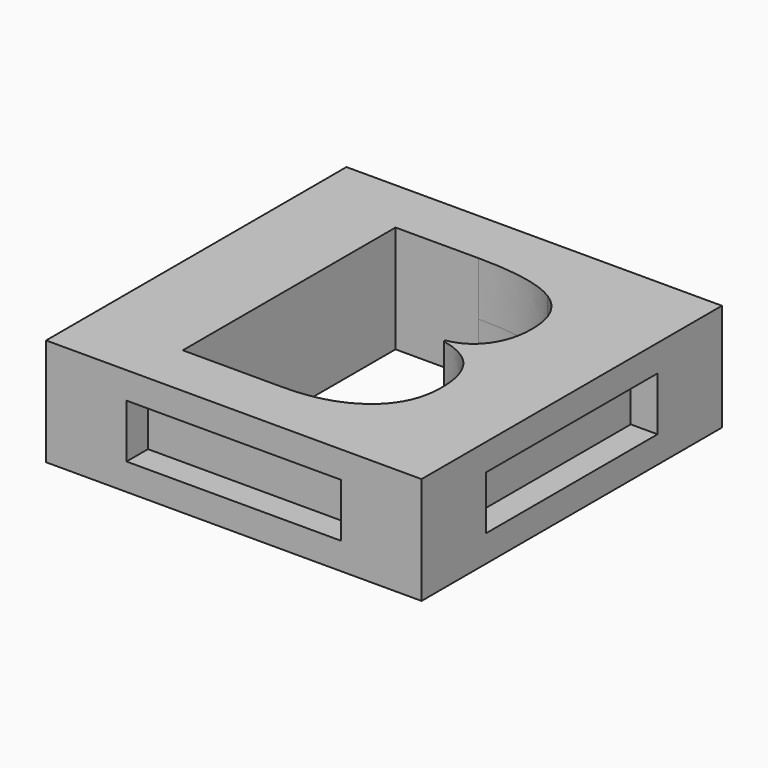
from build123d import *

# Parameters (mm, degrees)
F0_W     = 35.56
F0_H     = 35.56
F1_DEPTH = 5.08
F2_W     = 19.812
F2_H     = 4.572
F3_DEPTH = 2.54
F4_W     = 20.32
F4_H     = 5.08
F5_DEPTH = 2.54
F6_W     = 20.32
F6_H     = 5.08
F7_DEPTH = 2.54
F8_W     = 20.32
F8_H     = 5.08
F9_DEPTH = 2.54


with BuildPart() as f1:
    # F0 (on Top) → F1 (new body, symmetric)
    with BuildSketch(Plane.XY):
        Rectangle(F0_W, F0_H)
        with BuildLine():
            Line((-8.8966145833, -12.7), (-8.8966145833, 12.4850260417))
            Line((-8.8966145833, 12.4850260417), (-1.0583333333, 12.4850260417))
            add(Edge.make_bspline(
                [(-1.0583333333, 12.4850260417), (4.2994791667, 12.4850260417), (6.7193142361, 10.9609157986)],
                knots=[0, 0, 0, 1, 1, 1], degree=2))
            add(Edge.make_bspline(
                [(6.7193142361, 10.9609157986), (9.1391493056, 9.4368055556), (9.1391493056, 6.1129774306)],
                knots=[0, 0, 0, 1, 1, 1], degree=2))
            add(Edge.make_bspline(
                [(9.1391493056, 6.1129774306), (9.1391493056, 3.8529947917), (8.0808159722, 2.4060546875)],
                knots=[0, 0, 0, 1, 1, 1], degree=2))
            add(Edge.make_bspline(
                [(8.0808159722, 2.4060546875), (7.0224826389, 0.9591145833), (5.2641059028, 0.6669704861)],
                knots=[0, 0, 0, 1, 1, 1], degree=2))
            Line((5.2641059028, 0.6669704861), (5.2641059028, 0.49609375))
            add(Edge.make_bspline(
                [(5.2641059028, 0.49609375), (7.6563802083, -0.0385850694), (8.7174696181, -1.5020616319)],
                knots=[0, 0, 0, 1, 1, 1], degree=2))
            add(Edge.make_bspline(
                [(8.7174696181, -1.5020616319), (9.7785590278, -2.9655381944), (9.7785590278, -5.3963975694)],
                knots=[0, 0, 0, 1, 1, 1], degree=2))
            add(Edge.make_bspline(
                [(9.7785590278, -5.3963975694), (9.7785590278, -8.8414930556), (7.2870659722, -10.7707465278)],
                knots=[0, 0, 0, 1, 1, 1], degree=2))
            add(Edge.make_bspline(
                [(7.2870659722, -10.7707465278), (4.7955729167, -12.7), (0.5236545139, -12.7)],
                knots=[0, 0, 0, 1, 1, 1], degree=2))
            Line((0.5236545139, -12.7), (-8.8966145833, -12.7))
        make_face(mode=Mode.SUBTRACT)
    extrude(amount=F1_DEPTH, both=True)

    # F2 (on face) → F3 (join)
    with BuildSketch(Plane(origin=(0, 17.78, 0), x_dir=(-1, 0, 0), z_dir=(0, 1, 0))):
        Rectangle(F2_W, F2_H)
    extrude(amount=F3_DEPTH)

    # F4 (on face) → F5 (join)
    with BuildSketch(Plane(origin=(-17.78, 0, 0), x_dir=(0, -1, 0), z_dir=(-1, 0, 0))):
        Rectangle(F4_W, F4_H)
    extrude(amount=F5_DEPTH)

    # F6 (on face) → F7 (cut)
    with BuildSketch(Plane.XZ.offset(17.78)):
        Rectangle(F6_W, F6_H)
    extrude(amount=-F7_DEPTH, mode=Mode.SUBTRACT)

    # F8 (on face) → F9 (cut)
    with BuildSketch(Plane.YZ.offset(17.78)):
        Rectangle(F8_W, F8_H)
    extrude(amount=-F9_DEPTH, mode=Mode.SUBTRACT)


solid = f1.part
